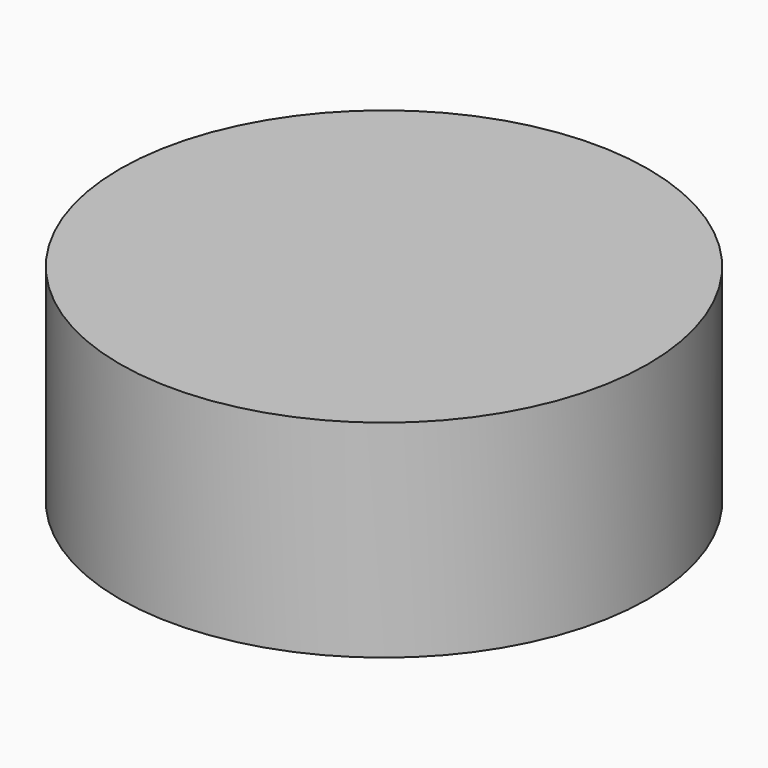
from build123d import *

# Parameters (mm, degrees)
CYLINDER_R     = 19.1516
CYLINDER_DEPTH = 15


with BuildPart() as part:
    # Cylinder → Cylinder (new body)
    with BuildSketch(Plane.XY.offset(-2.5)):
        Circle(CYLINDER_R)
    extrude(amount=CYLINDER_DEPTH)


solid = part.part
